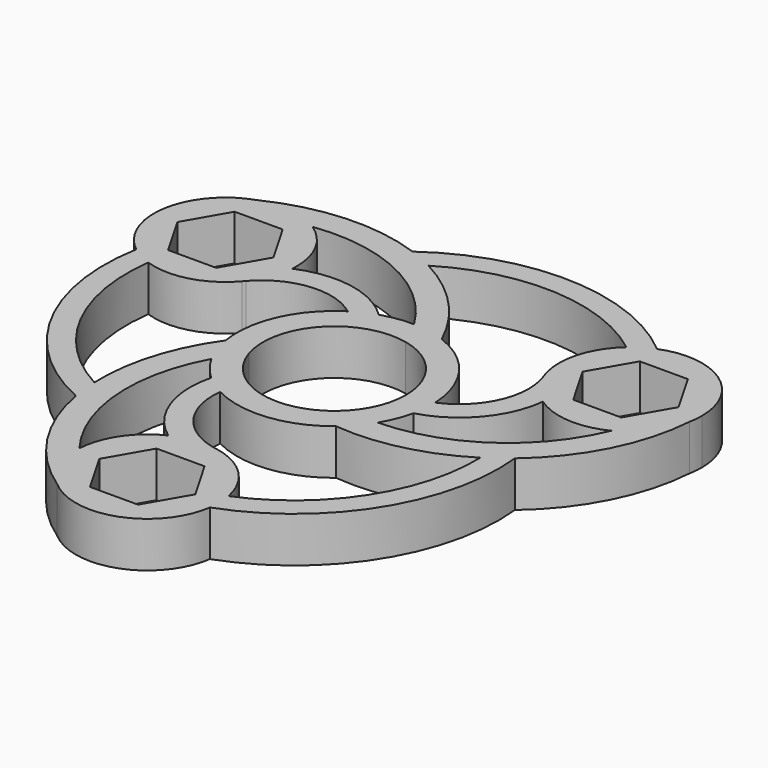
from build123d import *

# Parameters (mm, degrees)
F1_DEPTH = 7


with BuildPart() as f1:
    # F0 (on Top) → F1 (new body)
    with BuildSketch(Plane.XY):
        with BuildLine():
            ThreePointArc((-20.1769145362, 18), (-21.488385021, 23.2088766383), (-25.110077415, 27.1757009184))
            ThreePointArc((-25.110077415, 27.1757009184), (-29.7748571992, 28.9102811707), (-34.7266408906, 28.4115053095))
            ThreePointArc((-34.7266408906, 28.4115053095), (-42.0199383865, 19.8517110421), (-37.9807286986, 9.3566145033))
            ThreePointArc((-37.9807286986, 9.3566145033), (-36.4240480944, 8.3321362534), (-34.7167699787, 7.585134497))
            ThreePointArc((-34.7167699787, 7.585134497), (-28.3109335724, 7.379917462), (-22.878035033, 10.7799862195))
            ThreePointArc((-22.878035033, 10.7799862195), (-22.7206495749, 10.9739866522), (-22.5587647959, 11.1642487573))
            ThreePointArc((-22.5587647959, 11.1642487573), (-20.9409937058, 13.9718583996), (-20.2114514306, 17.1290126994))
            ThreePointArc((-20.2114514306, 17.1290126994), (-20.1855521511, 17.5641641149), (-20.1769145362, 18))
        make_face()
        Polygon((-27.4818728134, 24.4), (-23.7868310906, 18), (-27.4818728134, 11.6), (-34.8719562591, 11.6), (-38.5669979819, 18), (-34.8719562591, 24.4), align=None, mode=Mode.SUBTRACT)
        with BuildLine():
            ThreePointArc((-25.110077415, 27.1757009184), (-10.6130898996, 24.8635046125), (0.2578098611, 14.9977843055))
            ThreePointArc((0.2578098611, 14.9977843055), (2.8117454732, 14.7341130508), (5.2833018212, 14.0387578463))
            ThreePointArc((5.2833018212, 14.0387578463), (-0.1548013079, 22.1020653498), (-7.9047923881, 27.9780786067))
            ThreePointArc((-7.9047923881, 27.9780786067), (-9.7736896067, 28.8795995701), (-11.7009340456, 29.6485246209))
            ThreePointArc((-11.7009340456, 29.6485246209), (-23.3386442583, 31.3540820363), (-34.7266408906, 28.4115053095))
            ThreePointArc((-34.7266408906, 28.4115053095), (-29.7748571992, 28.9102811707), (-25.110077415, 27.1757009184))
        make_face()
        with BuildLine():
            ThreePointArc((-10.4801536135, -3.3743859051), (-8.1623807228, 7.3888863123), (2.3177728907, 10.7632722175))
            ThreePointArc((2.3177728907, 10.7632722175), (1.3849026925, 12.9277700022), (0.2578098611, 14.9977843055))
            ThreePointArc((0.2578098611, 14.9977843055), (-2.2008314196, 14.8376662943), (-4.6000937333, 14.2772244377))
            ThreePointArc((-4.6000937333, 14.2772244377), (-6.3822716771, 13.5744837191), (-8.0603476006, 12.6503279229))
            ThreePointArc((-8.0603476006, 12.6503279229), (-13.6968225738, 6.1153128606), (-14.799571843, -2.4439053302))
            ThreePointArc((-14.799571843, -2.4439053302), (-14.1659889408, -4.9320135166), (-13.1173671396, -7.2756222638))
            ThreePointArc((-13.1173671396, -7.2756222638), (-11.8882285824, -5.2645240876), (-10.4801536135, -3.3743859051))
        make_face()
        with BuildLine():
            ThreePointArc((2.3177728907, 10.7632722175), (8.565593369, 6.9174207792), (11.01, 0))
            ThreePointArc((11.01, 0), (10.273458808, -3.9593110665), (8.1623807228, -7.3888863123))
            ThreePointArc((8.1623807228, -7.3888863123), (10.5033258899, -7.6632459146), (12.8595572786, -7.7221620418))
            ThreePointArc((12.8595572786, -7.7221620418), (13.9502116536, -5.5128572283), (14.6644859253, -3.154814186))
            ThreePointArc((14.6644859253, -3.154814186), (14.9158856405, -1.5863024808), (15, 0))
            ThreePointArc((15, 0), (14.9964193596, 0.327729144), (14.9856791478, 0.655301824))
            ThreePointArc((14.9856791478, 0.655301824), (12.1444275762, 8.8041398697), (5.2833018212, 14.0387578463))
            ThreePointArc((5.2833018212, 14.0387578463), (2.8117454732, 14.7341130508), (0.2578098611, 14.9977843055))
            ThreePointArc((0.2578098611, 14.9977843055), (1.3849026925, 12.9277700022), (2.3177728907, 10.7632722175))
        make_face()
        with BuildLine():
            ThreePointArc((12.8595572786, -7.7221620418), (10.5033258899, -7.6632459146), (8.1623807228, -7.3888863123))
            ThreePointArc((8.1623807228, -7.3888863123), (-2.3177728907, -10.7632722175), (-10.4801536135, -3.3743859051))
            ThreePointArc((-10.4801536135, -3.3743859051), (-11.8882285824, -5.2645240876), (-13.1173671396, -7.2756222638))
            ThreePointArc((-13.1173671396, -7.2756222638), (-11.749380234, -9.324809066), (-10.0643921919, -11.1224102517))
            ThreePointArc((-10.0643921919, -11.1224102517), (-8.5647119055, -12.3144512657), (-6.9253315472, -13.3056297469))
            ThreePointArc((-6.9253315472, -13.3056297469), (1.5523949975, -14.9194527303), (9.5162700219, -11.5948525161))
            ThreePointArc((9.5162700219, -11.5948525161), (11.3542434676, -9.8020995342), (12.8595572786, -7.7221620418))
        make_face()
        with BuildLine():
            ThreePointArc((-10.9798086535, -35.3338153916), (-16.2258816717, -21.6229577719), (-13.1173671396, -7.2756222638))
            ThreePointArc((-13.1173671396, -7.2756222638), (-14.1659889408, -4.9320135166), (-14.799571843, -2.4439053302))
            ThreePointArc((-14.799571843, -2.4439053302), (-19.0635494151, -11.1850945401), (-20.2773306285, -20.8347903231))
            ThreePointArc((-20.2773306285, -20.8347903231), (-20.1236220755, -22.9040632731), (-19.8259084836, -24.957568442))
            ThreePointArc((-19.8259084836, -24.957568442), (-15.4841094266, -35.8888998357), (-7.2417649124, -44.2799058541))
            ThreePointArc((-7.2417649124, -44.2799058541), (-10.1496093248, -40.2409233139), (-10.9798086535, -35.3338153916))
        make_face()
        with BuildLine():
            ThreePointArc((-8.0603476006, 12.6503279229), (-6.3822716771, 13.5744837191), (-4.6000937333, 14.2772244377))
            ThreePointArc((-4.6000937333, 14.2772244377), (-11.9690338946, 18.0939285598), (-20.2114514306, 17.1290126994))
            ThreePointArc((-20.2114514306, 17.1290126994), (-20.9409937058, 13.9718583996), (-22.5587647959, 11.1642487573))
            ThreePointArc((-22.5587647959, 11.1642487573), (-15.6028763872, 14.7689652749), (-8.0603476006, 12.6503279229))
        make_face()
        with BuildLine():
            ThreePointArc((36.0898860685, 8.1581144732), (26.8389715713, -3.2405468406), (12.8595572786, -7.7221620418))
            ThreePointArc((12.8595572786, -7.7221620418), (11.3542434676, -9.8020995342), (9.5162700219, -11.5948525161))
            ThreePointArc((9.5162700219, -11.5948525161), (19.218350723, -10.9169708097), (28.1821230165, -7.1432882836))
            ThreePointArc((28.1821230165, -7.1432882836), (29.8973116822, -5.9755362969), (31.5268425292, -4.6909561789))
            ThreePointArc((31.5268425292, -4.6909561789), (38.8227536849, 4.5348177995), (41.9684058031, 15.8684005447))
            ThreePointArc((41.9684058031, 15.8684005447), (39.924466524, 11.3306421432), (36.0898860685, 8.1581144732))
        make_face()
        with BuildLine():
            ThreePointArc((24.9398858547, 8.9391240365), (30.4082951127, 7.0268863042), (36.0898860685, 8.1581144732))
            ThreePointArc((36.0898860685, 8.1581144732), (39.924466524, 11.3306421432), (41.9684058031, 15.8684005447))
            ThreePointArc((41.9684058031, 15.8684005447), (42.1246632531, 16.9291134362), (42.1769145362, 18))
            ThreePointArc((42.1769145362, 18), (37.3446399002, 27.1081921277), (27.0934302026, 28.2139686556))
            ThreePointArc((27.0934302026, 28.2139686556), (25.4278657104, 27.3780828317), (23.9273041549, 26.2730374904))
            ThreePointArc((23.9273041549, 26.2730374904), (20.5466627861, 20.8280289476), (20.774759435, 14.4229664175))
            ThreePointArc((20.774759435, 14.4229664175), (20.8640760091, 14.1896663962), (20.9479054359, 13.9543390126))
            ThreePointArc((20.9479054359, 13.9543390126), (22.570481165, 11.1495033299), (24.9398858547, 8.9391240365))
        make_face()
        Polygon((34.8719562591, 24.4), (38.5669979819, 18), (34.8719562591, 11.6), (27.4818728134, 11.6), (23.7868310906, 18), (27.4818728134, 24.4), align=None, mode=Mode.SUBTRACT)
        with BuildLine():
            ThreePointArc((-4.7284344241, -26.0681367359), (-9.1186855075, -29.8477992055), (-10.9798086535, -35.3338153916))
            ThreePointArc((-10.9798086535, -35.3338153916), (-10.1496093248, -40.2409233139), (-7.2417649124, -44.2799058541))
            ThreePointArc((-7.2417649124, -44.2799058541), (3.8178831222, -46.3161896292), (10.887298496, -37.5705831589))
            ThreePointArc((10.887298496, -37.5705831589), (10.9717884471, -36.7873107849), (11, -36))
            ThreePointArc((11, -36), (10.9472399275, -34.9239247384), (10.7894658239, -33.8581719874))
            ThreePointArc((10.7894658239, -33.8581719874), (7.7642707863, -28.2079464095), (2.1032755979, -25.202952637))
            ThreePointArc((2.1032755979, -25.202952637), (1.8565735658, -25.1636530484), (1.61085936, -25.1185877699))
            ThreePointArc((1.61085936, -25.1185877699), (-1.6294874593, -25.1213617295), (-4.7284344241, -26.0681367359))
        make_face()
        Polygon((3.6950417228, -42.4), (-3.6950417228, -42.4), (-7.3900834456, -36), (-3.6950417228, -29.6), (3.6950417228, -29.6), (7.3900834456, -36), align=None, mode=Mode.SUBTRACT)
        with BuildLine():
            ThreePointArc((15, 0), (14.9158856405, -1.5863024808), (14.6644859253, -3.154814186))
            ThreePointArc((14.6644859253, -3.154814186), (21.6543187343, 1.3185231315), (24.9398858547, 8.9391240365))
            ThreePointArc((24.9398858547, 8.9391240365), (22.570481165, 11.1495033299), (20.9479054359, 13.9543390126))
            ThreePointArc((20.9479054359, 13.9543390126), (20.5917373093, 6.128004686), (14.9856791478, 0.655301824))
            ThreePointArc((14.9856791478, 0.655301824), (14.9964193596, 0.327729144), (15, 0))
        make_face()
        with BuildLine():
            ThreePointArc((-6.9253315472, -13.3056297469), (-8.5647119055, -12.3144512657), (-10.0643921919, -11.1224102517))
            ThreePointArc((-10.0643921919, -11.1224102517), (-9.6852848398, -19.4124516913), (-4.7284344241, -26.0681367359))
            ThreePointArc((-4.7284344241, -26.0681367359), (-1.6294874593, -25.1213617295), (1.61085936, -25.1185877699))
            ThreePointArc((1.61085936, -25.1185877699), (-4.9888609221, -20.8969699609), (-6.9253315472, -13.3056297469))
        make_face()
        with BuildLine():
            ThreePointArc((-19.8259084836, -24.957568442), (-20.1236220755, -22.9040632731), (-20.2773306285, -20.8347903231))
            ThreePointArc((-20.2773306285, -20.8347903231), (-31.931222333, -8.87771769), (-34.7167699787, 7.585134497))
            ThreePointArc((-34.7167699787, 7.585134497), (-36.4240480944, 8.3321362534), (-37.9807286986, 9.3566145033))
            ThreePointArc((-37.9807286986, 9.3566145033), (-34.8113873846, -10.9262960202), (-19.8259084836, -24.957568442))
        make_face()
        with BuildLine():
            ThreePointArc((-11.7009340456, 29.6485246209), (-9.7736896067, 28.8795995701), (-7.9047923881, 27.9780786067))
            ThreePointArc((-7.9047923881, 27.9780786067), (8.2772821194, 32.0921085593), (23.9273041549, 26.2730374904))
            ThreePointArc((23.9273041549, 26.2730374904), (25.4278657104, 27.3780828317), (27.0934302026, 28.2139686556))
            ThreePointArc((27.0934302026, 28.2139686556), (7.9432437696, 35.6106938262), (-11.7009340456, 29.6485246209))
        make_face()
        with BuildLine():
            ThreePointArc((31.5268425292, -4.6909561789), (29.8973116822, -5.9755362969), (28.1821230165, -7.1432882836))
            ThreePointArc((28.1821230165, -7.1432882836), (23.6539402137, -23.2143908693), (10.7894658239, -33.8581719874))
            ThreePointArc((10.7894658239, -33.8581719874), (10.9472399275, -34.9239247384), (11, -36))
            ThreePointArc((11, -36), (10.9717884471, -36.7873107849), (10.887298496, -37.5705831589))
            ThreePointArc((10.887298496, -37.5705831589), (26.8681436151, -24.684397806), (31.5268425292, -4.6909561789))
        make_face()
    extrude(amount=F1_DEPTH)


solid = f1.part
